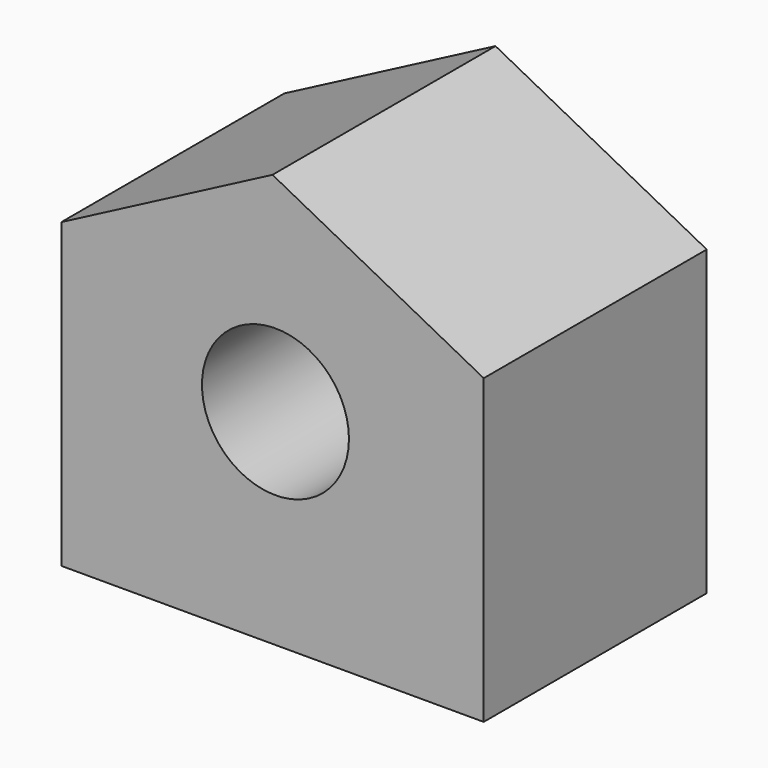
from build123d import *

# Parameters (mm, degrees)
F1_DEPTH = 50.8
F2_R     = 13.391817
F3_DEPTH = 50.801


with BuildPart() as f1:
    # F0 (on Front) → F1 (new body)
    with BuildSketch(Plane.XZ):
        Polygon((38.491298, 38.491298), (0, 58.60192), (-38.491298, 38.491298), (-38.491298, -16.650731), (38.491298, -16.650731), align=None)
    extrude(amount=-F1_DEPTH)

    # F2 (on Front) → F3 (cut, through all)
    with BuildSketch(Plane.XZ):
        with Locations((0.540605, 20.759353)):
            Circle(F2_R)
    extrude(amount=-F3_DEPTH, mode=Mode.SUBTRACT)


solid = f1.part
